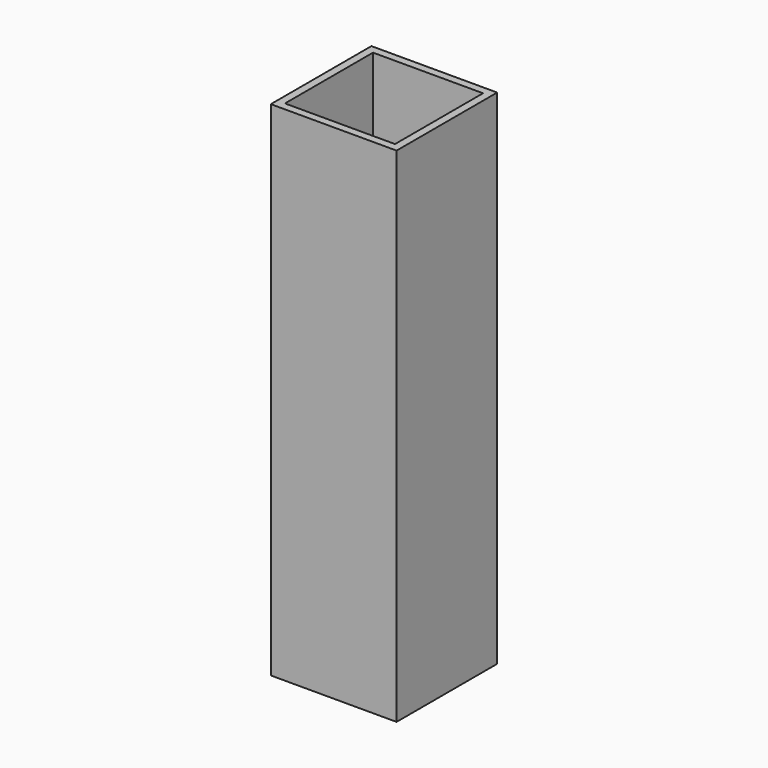
from build123d import *

# Parameters (mm, degrees)
F0_W     = 50.8
F0_H     = 50.8
F2_DEPTH = 203.2
F1_W     = 44.45
F1_H     = 44.45
F3_DEPTH = 203.2


with BuildPart() as f2:
    # F0 (on Top) → F2 (new body)
    with BuildSketch(Plane.XY):
        Rectangle(F0_W, F0_H)
    extrude(amount=F2_DEPTH)

    # F1 (on Top) → F3 (cut)
    with BuildSketch(Plane.XY):
        Rectangle(F1_W, F1_H)
    extrude(amount=F3_DEPTH, mode=Mode.SUBTRACT)


solid = f2.part
